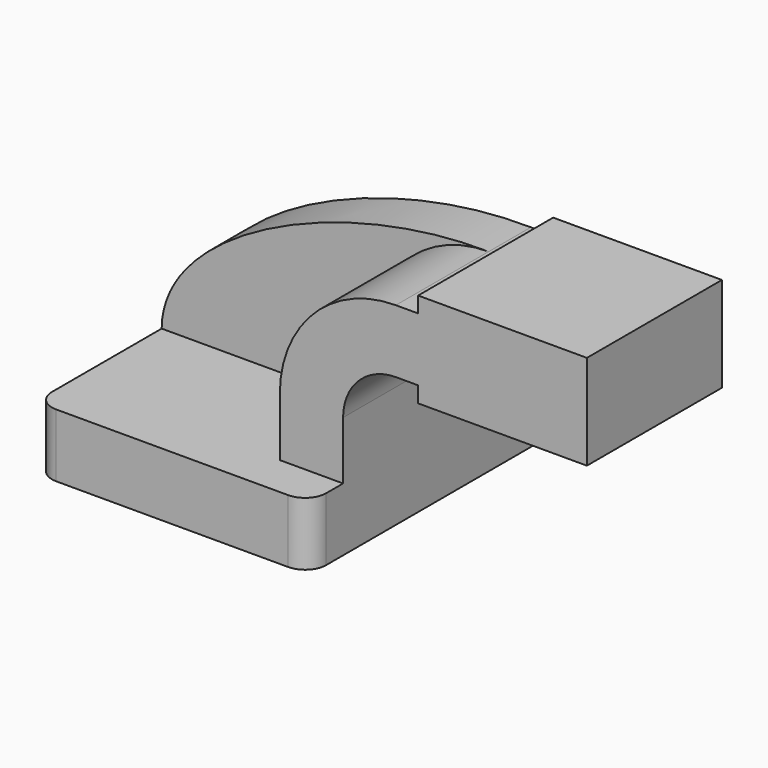
from build123d import *

# Parameters (mm, degrees)
F1_DEPTH = 63.5
F2_DEPTH = 50.8
F0_W     = 25.4
F0_H     = 19.05
F0_H_2   = 4.7498004709
F0_H_3   = 4.7751995291
F3_DEPTH = 50.8
F4_DEPTH = 15.875
F5_R     = 6.35


with BuildPart() as f1:
    # F0 (on Front) → F1 (new body, symmetric)
    with BuildSketch(Plane.XZ):
        Polygon((-41.275, 9.525), (-41.275, -9.525), (41.275, -9.525), (41.275, 9.525), (22.225, 9.525), align=None)
    extrude(amount=F1_DEPTH, both=True)

    # F0 (on Front) → F2 (join)
    with BuildSketch(Plane.XZ):
        with BuildLine():
            Line((22.225, 9.525), (41.275, 9.525))
            Line((41.275, 9.525), (41.275, 27.0002))
            ThreePointArc((41.275, 27.0002), (45.9246798487, 38.2255201513), (57.15, 42.8752))
            Line((57.15, 42.8752), (63.8665184379, 42.8752))
            Line((63.8665184379, 42.8752), (63.8665184379, 61.9252))
            Line((63.8665184379, 61.9252), (57.15, 61.9252))
            ThreePointArc((57.15, 61.9252), (32.4542956671, 51.6959043329), (22.225, 27.0002))
            Line((22.225, 27.0002), (22.225, 9.525))
        make_face()
    extrude(amount=F2_DEPTH)

    # F0 (on Front) → F3 (join)
    with BuildSketch(Plane.XZ):
        with Locations((76.5665184379, 52.4002)):
            Rectangle(F0_W, F0_H)
        Polygon((89.2665184379, 66.6750004709), (89.2665184379, 61.9252), (89.2665184379, 42.8752), (89.2665184379, 38.1000004709), (114.6665184379, 38.1000004709), (114.6665184379, 66.6750004709), align=None)
        with Locations((76.5665184379, 64.3001002354)):
            Rectangle(F0_W, F0_H_2)
        with Locations((76.5665184379, 40.4876002354)):
            Rectangle(F0_W, F0_H_3)
    extrude(amount=F3_DEPTH)

    # F0 (on Front) → F4 (join)
    with BuildSketch(Plane.XZ):
        Polygon((-41.275, 9.525), (-41.275, -9.525), (41.275, -9.525), (41.275, 9.525), (22.225, 9.525), align=None)
        with BuildLine():
            add(Edge.make_bspline(
                [(-41.275, 9.525), (-41.1059595644, 38.1653234363), (12.9924593493, 62.6207739115), (57.15, 61.9252)],
                knots=[0, 0, 0, 0, 111.5045361635, 111.5045361635, 111.5045361635, 111.5045361635], degree=3))
            Line((-41.275, 9.525), (22.225, 9.525))
            Line((22.225, 9.525), (22.225, 27.0002))
            ThreePointArc((22.225, 27.0002), (32.4542956671, 51.6959043329), (57.15, 61.9252))
        make_face()
        with BuildLine():
            Line((22.225, 9.525), (41.275, 9.525))
            Line((41.275, 9.525), (41.275, 27.0002))
            ThreePointArc((41.275, 27.0002), (45.9246798487, 38.2255201513), (57.15, 42.8752))
            Line((57.15, 42.8752), (63.8665184379, 42.8752))
            Line((63.8665184379, 42.8752), (63.8665184379, 61.9252))
            Line((63.8665184379, 61.9252), (57.15, 61.9252))
            ThreePointArc((57.15, 61.9252), (32.4542956671, 51.6959043329), (22.225, 27.0002))
            Line((22.225, 27.0002), (22.225, 9.525))
        make_face()
        with Locations((76.5665184379, 52.4002)):
            Rectangle(F0_W, F0_H)
        with Locations((76.5665184379, 64.3001002354)):
            Rectangle(F0_W, F0_H_2)
        with Locations((76.5665184379, 40.4876002354)):
            Rectangle(F0_W, F0_H_3)
        Polygon((89.2665184379, 66.6750004709), (89.2665184379, 61.9252), (89.2665184379, 42.8752), (89.2665184379, 38.1000004709), (114.6665184379, 38.1000004709), (114.6665184379, 66.6750004709), align=None)
    extrude(amount=F4_DEPTH)

    # F5
    f5_edges = [f1.edges().sort_by_distance(p)[0] for p in [
        (41.275, -63.5, 0),
        (-41.275, -63.5, 0),
        (41.275, 63.5, 0),
        (-41.275, 63.5, 0),
    ]]
    fillet(f5_edges, radius=F5_R)


solid = f1.part
